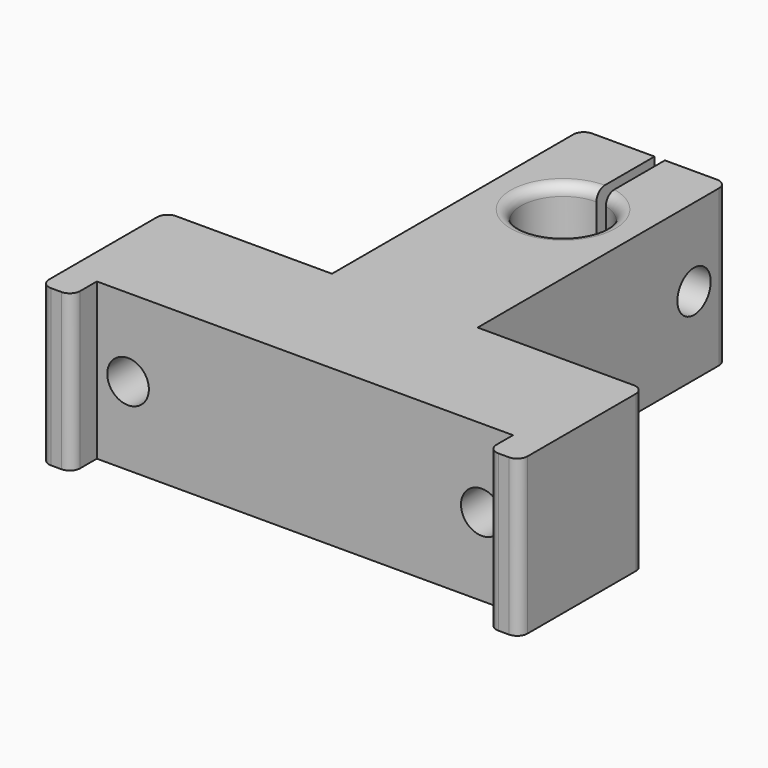
from build123d import *

# Parameters (mm, degrees)
SKETCH002_R  = 2
PAD002_DEPTH = 17.5
SKETCH001_R  = 2
PAD001_DEPTH = 20
PAD_DEPTH    = 7.5
FILLET_R     = 1


with BuildPart() as pad002:
    # Sketch002 → Pad002 (new body, symmetric)
    with BuildSketch(Plane.YZ):
        with Locations((38, 0)):
            Circle(SKETCH002_R)
    extrude(amount=PAD002_DEPTH, both=True)


with BuildPart() as pad001:
    # Sketch001 → Pad001 (new body, symmetric)
    with BuildSketch(Plane.XZ):
        with Locations((-17, 0)):
            Circle(SKETCH001_R)
        with Locations((17, 0)):
            Circle(SKETCH001_R)
    extrude(amount=PAD001_DEPTH, both=True)


with BuildPart() as fillet_body:
    # Sketch → Pad (new body, symmetric)
    with BuildSketch(Plane.XY):
        with BuildLine():
            Line((0, 0), (20, 0))
            Line((20, 0), (20, -3))
            Line((20, -3), (23, -3))
            Line((23, -3), (23, 12))
            Line((23, 12), (7, 12))
            Line((7, 12), (7, 42))
            Line((0.998309, 42), (7, 42))
            Line((0.998309, 34.901094), (0.998309, 42))
            ThreePointArc((0, 35.026635), (-0.499717, 27.020731), (0.998309, 34.901094))
            Line((0, 42), (0, 35.026635))
            Line((-7, 42), (0, 42))
            Line((-7, 42), (-7, 12))
            Line((-7, 12), (-23, 12))
            Line((-23, -3), (-23, 12))
            Line((-20, -3), (-23, -3))
            Line((-20, 0), (-20, -3))
            Line((0, 0), (-20, 0))
        make_face()
    extrude(amount=PAD_DEPTH, both=True)

    # Cut: cut Pad001
    add(pad001.part, mode=Mode.SUBTRACT)

    # Cut001: cut Pad002
    add(pad002.part, mode=Mode.SUBTRACT)

    # Fillet
    fillet_edges = [fillet_body.edges().sort_by_distance(p)[0] for p in [
        (23, -3, 0),
        (20, -3, 0),
        (-20, -3, 0),
        (-23, -3, 0),
        (23, 12, 0),
        (7, 42, 0),
        (-0.499717, 27.020731, 7.5),
        (-23, 12, 0),
        (-7, 42, 0),
        (-0.499717, 27.020731, -7.5),
    ]]
    fillet(fillet_edges, radius=FILLET_R)


solid = fillet_body.part
